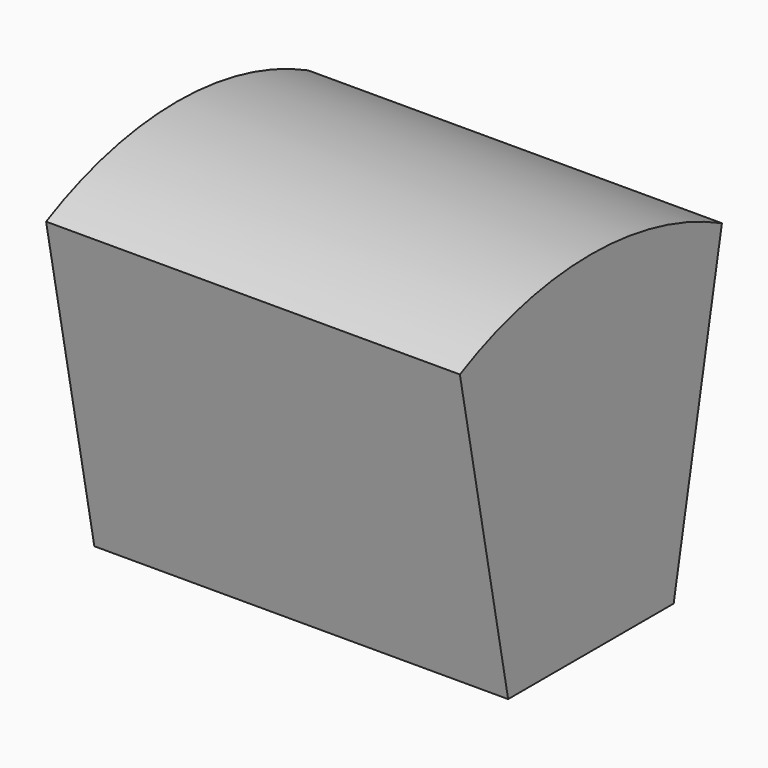
from build123d import *

# Parameters (mm, degrees)
F1_DEPTH = 80


with BuildPart() as f1:
    # F0 (on Right) → F1 (new body)
    with BuildSketch(Plane.YZ):
        with BuildLine():
            Line((20, 0), (31.662819, 60))
            ThreePointArc((31.662819, 60), (0, 67.570312), (-31.662819, 60))
            Line((-31.662819, 60), (-20, 0))
            Line((-20, 0), (20, 0))
        make_face()
    extrude(amount=-F1_DEPTH)


solid = f1.part
